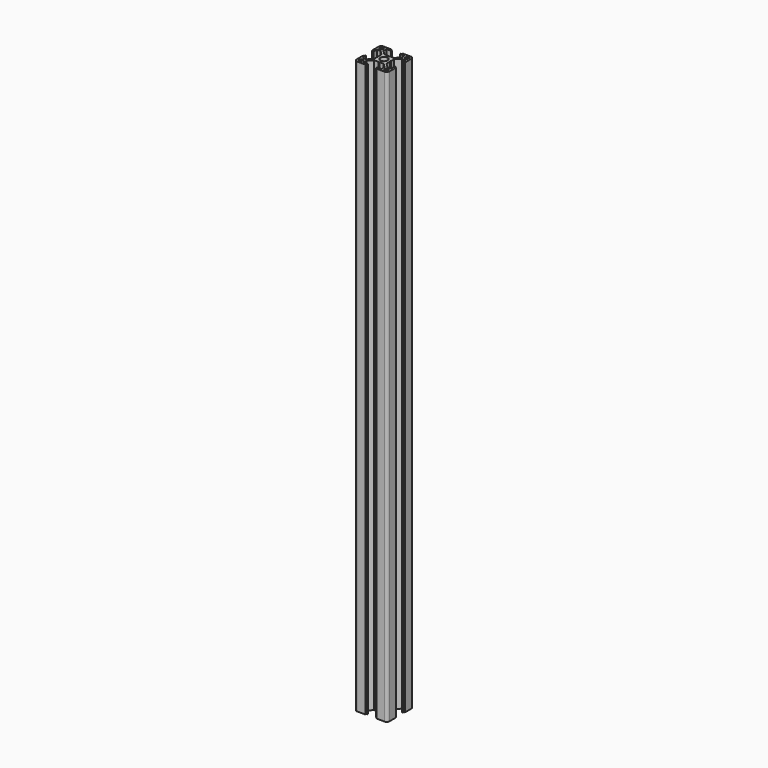
from build123d import *

# Parameters (mm, degrees)
F1_DEPTH = 261.5


with BuildPart() as f1:
    # F0 (on Top) → F1 (new body, symmetric)
    with BuildSketch(Plane.XY):
        with BuildLine():
            Line((-5.1, 14), (-5.1, 15))
            Line((-5.1, 15), (-12.5, 15))
            ThreePointArc((-12.5, 15), (-14.267767, 14.267767), (-15, 12.5))
            Line((-15, 12.5), (-15, 5.1))
            Line((-15, 5.1), (-14, 5.1))
            Line((-14, 5.1), (-14, 4.1))
            Line((-14, 4.1), (-13, 4.1))
            Line((-13, 4.1), (-13, 8.25))
            Line((-13, 8.25), (-9.7, 8.25))
            Line((-9.7, 8.25), (-5.8, 4.35))
            Line((-5.8, 4.35), (-5.8, 0.5))
            Line((-5.8, 0.5), (-5.5, 0))
            Line((-5.5, 0), (-3.4, 0))
            ThreePointArc((-3.4, 0), (-2.404163, 2.404163), (0, 3.4))
            Line((0, 3.4), (0, 5.5))
            Line((0, 5.5), (-0.5, 5.8))
            Line((-0.5, 5.8), (-4.35, 5.8))
            Line((-4.35, 5.8), (-8.25, 9.7))
            Line((-8.25, 9.7), (-8.25, 13))
            Line((-8.25, 13), (-4.1, 13))
            Line((-4.1, 13), (-4.1, 14))
            Line((-4.1, 14), (-5.1, 14))
        make_face()
        with BuildLine():
            ThreePointArc((-13, 12.5), (-12.853553, 12.853553), (-12.5, 13))
            Line((-12.5, 13), (-10.75, 13))
            ThreePointArc((-10.75, 13), (-10.396447, 12.853553), (-10.25, 12.5))
            Line((-10.25, 12.5), (-10.25, 10.75))
            ThreePointArc((-10.25, 10.75), (-10.396447, 10.396447), (-10.75, 10.25))
            Line((-10.75, 10.25), (-12.5, 10.25))
            ThreePointArc((-12.5, 10.25), (-12.853553, 10.396447), (-13, 10.75))
            Line((-13, 10.75), (-13, 12.5))
        make_face(mode=Mode.SUBTRACT)
    extrude(amount=F1_DEPTH, both=True)

    # F2: F1 across face


with BuildPart() as f1_1:
    add(f1.part)
    add(f1.part.mirror(Plane(origin=(0, 4.45, 0), x_dir=(0, 1, 0), z_dir=(1, 0, 0))))

    # F3: F1 across face


with BuildPart() as f1_2:
    add(f1_1.part)
    add(f1_1.part.mirror(Plane(origin=(-4.45, 0, 0), x_dir=(1, 0, 0), z_dir=(0, -1, 0))))


solid = f1_2.part
